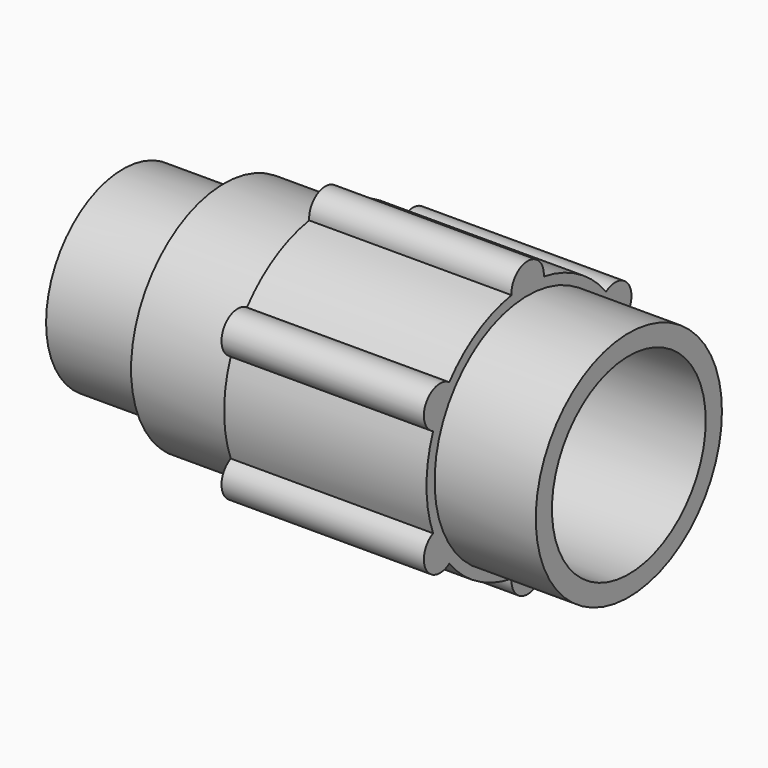
from build123d import *

# Parameters (mm, degrees)
F0_R     = 8.5
F1_DEPTH = 10
F2_R     = 11.5
F2_R_2   = 8.5
F3_DEPTH = 20
F4_R     = 9.5
F4_R_2   = 7.5
F5_DEPTH = 10
F6_R     = 9.5
F7_DEPTH = 25


with BuildPart() as f1:
    # F0 (on Right) → F1 (new body, symmetric)
    with BuildSketch(Plane.YZ):
        with BuildLine():
            ThreePointArc((11.6835483463, -4.4435006516), (12.2941928228, -2.2589428581), (12.5, 0))
            ThreePointArc((12.5, 0), (12.2941928228, 2.2589428581), (11.6835483463, 4.4435006516))
            ThreePointArc((11.6835483463, 4.4435006516), (10.8253175473, 6.25), (9.6899586191, 7.8964993484))
            ThreePointArc((9.6899586191, 7.8964993484), (6.25, 10.8253175473), (1.9935897271, 12.34))
            ThreePointArc((1.9935897271, 12.34), (0, 12.5), (-1.9935897271, 12.34))
            ThreePointArc((-1.9935897271, 12.34), (-6.25, 10.8253175473), (-9.6899586191, 7.8964993484))
            ThreePointArc((-9.6899586191, 7.8964993484), (-10.8253175473, 6.25), (-11.6835483463, 4.4435006516))
            ThreePointArc((-11.6835483463, 4.4435006516), (-12.5, 0), (-11.6835483463, -4.4435006516))
            ThreePointArc((-11.6835483463, -4.4435006516), (-10.8253175473, -6.25), (-9.6899586191, -7.8964993484))
            ThreePointArc((-9.6899586191, -7.8964993484), (-6.25, -10.8253175473), (-1.9935897271, -12.34))
            ThreePointArc((-1.9935897271, -12.34), (0, -12.5), (1.9935897271, -12.34))
            ThreePointArc((1.9935897271, -12.34), (6.25, -10.8253175473), (9.6899586191, -7.8964993484))
            ThreePointArc((9.6899586191, -7.8964993484), (10.8253175473, -6.25), (11.6835483463, -4.4435006516))
        make_face()
        Circle(F0_R, mode=Mode.SUBTRACT)
        with BuildLine():
            ThreePointArc((9.6899586191, 7.8964993484), (10.8253175473, 6.25), (11.6835483463, 4.4435006516))
            ThreePointArc((11.6835483463, 4.4435006516), (12.5573683549, 7.25), (9.6899586191, 7.8964993484))
        make_face()
        with BuildLine():
            ThreePointArc((9.6899586191, -7.8964993484), (12.5573683549, -7.25), (11.6835483463, -4.4435006516))
            ThreePointArc((11.6835483463, -4.4435006516), (10.8253175473, -6.25), (9.6899586191, -7.8964993484))
        make_face()
        with BuildLine():
            ThreePointArc((-1.9935897271, 12.34), (0, 12.5), (1.9935897271, 12.34))
            ThreePointArc((1.9935897271, 12.34), (0, 14.5), (-1.9935897271, 12.34))
        make_face()
        with BuildLine():
            ThreePointArc((-1.9935897271, -12.34), (0, -14.5), (1.9935897271, -12.34))
            ThreePointArc((1.9935897271, -12.34), (0, -12.5), (-1.9935897271, -12.34))
        make_face()
        with BuildLine():
            ThreePointArc((-11.6835483463, 4.4435006516), (-10.8253175473, 6.25), (-9.6899586191, 7.8964993484))
            ThreePointArc((-9.6899586191, 7.8964993484), (-12.5573683549, 7.25), (-11.6835483463, 4.4435006516))
        make_face()
        with BuildLine():
            ThreePointArc((-11.6835483463, -4.4435006516), (-12.5573683549, -7.25), (-9.6899586191, -7.8964993484))
            ThreePointArc((-9.6899586191, -7.8964993484), (-10.8253175473, -6.25), (-11.6835483463, -4.4435006516))
        make_face()
    extrude(amount=F1_DEPTH, both=True)

    # F2 (on Right) → F3 (join, symmetric)
    with BuildSketch(Plane.YZ):
        Circle(F2_R)
        Circle(F2_R_2, mode=Mode.SUBTRACT)
    extrude(amount=F3_DEPTH, both=True)

    # F4 (on face) → F5 (join)
    with BuildSketch(Plane(origin=(-20, 0, 0), x_dir=(0, -1, 0), z_dir=(-1, 0, 0))):
        Circle(F4_R)
        Circle(F4_R_2, mode=Mode.SUBTRACT)
    extrude(amount=F5_DEPTH)

    # F6 (on face) → F7 (cut)
    with BuildSketch(Plane.YZ.offset(20)):
        Circle(F6_R)
    extrude(amount=-F7_DEPTH, mode=Mode.SUBTRACT)


solid = f1.part
